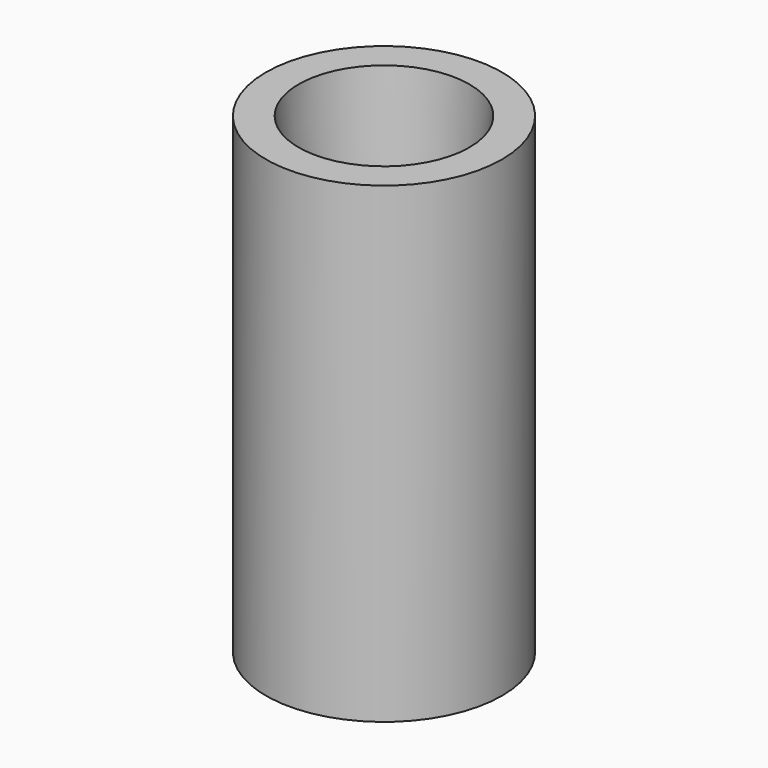
from build123d import *

# Parameters (mm, degrees)
F0_R     = 4
F0_R_2   = 2.476
F2_DEPTH = 8
F3_DEPTH = 12.7
F3_TAPER = -3


with BuildPart() as f2:
    # F0 (on Top) → F2 (new body, symmetric)
    with BuildSketch(Plane.XY):
        Circle(F0_R)
        Circle(F0_R_2, mode=Mode.SUBTRACT)
        Circle(F0_R_2)
    extrude(amount=F2_DEPTH, both=True)

    # F0 (on Top) → F3 (cut, symmetric)
    with BuildSketch(Plane.XY):
        Circle(F0_R_2)
    extrude(amount=F3_DEPTH, both=True, taper=F3_TAPER, mode=Mode.SUBTRACT)


solid = f2.part
